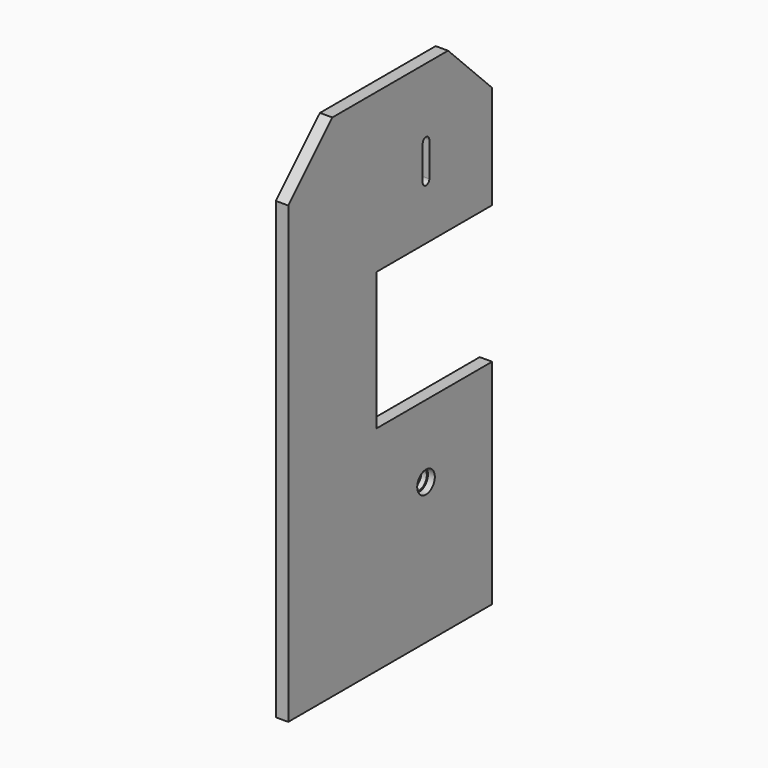
from build123d import *

# Parameters (mm, degrees)
F0_R     = 6
F1_DEPTH = 18
F2_SIZE  = 80
F3_R     = 16
F4_DEPTH = 10
F5_R     = 14
F6_DEPTH = 8


with BuildPart() as f1:
    # F0 (on Right) → F1 (new body)
    with BuildSketch(Plane.YZ):
        Polygon((0, 740), (0, 0), (370, 0), (370, 310), (160, 310), (160, 510), (370, 510), (370, 740), align=None)
        with Locations((250, 205)):
            Circle(F0_R, mode=Mode.SUBTRACT)
        with BuildLine():
            ThreePointArc((244.026492, 640.563206), (250.281914, 645.993373), (256, 640))
            Line((256, 640), (256, 590))
            ThreePointArc((256, 590), (250.281914, 584.006627), (244.026492, 589.436794))
            ThreePointArc((244.026492, 589.436794), (244, 590), (244.026492, 590.563206))
            Line((244.026492, 590.563206), (244.026492, 639.436794))
            ThreePointArc((244.026492, 639.436794), (244, 640), (244.026492, 640.563206))
        make_face(mode=Mode.SUBTRACT)
    extrude(amount=F1_DEPTH)

    # F2
    f2_edges = [f1.edges().sort_by_distance(p)[0] for p in [
        (9, 0, 740),
        (9, 370, 740),
    ]]
    chamfer(f2_edges, length=F2_SIZE)

    # F3 (on face) → F4 (cut)
    with BuildSketch(Plane.YZ.offset(18)):
        with Locations((250, 205)):
            Circle(F3_R)
    extrude(amount=-F4_DEPTH, mode=Mode.SUBTRACT)

    # F5 (on face) → F6 (cut)
    with BuildSketch(Plane(origin=(0, 0, 0), x_dir=(0, -1, 0), z_dir=(-1, 0, 0))):
        with Locations((-250, 205)):
            Circle(F5_R)
    extrude(amount=-F6_DEPTH, mode=Mode.SUBTRACT)


solid = f1.part
